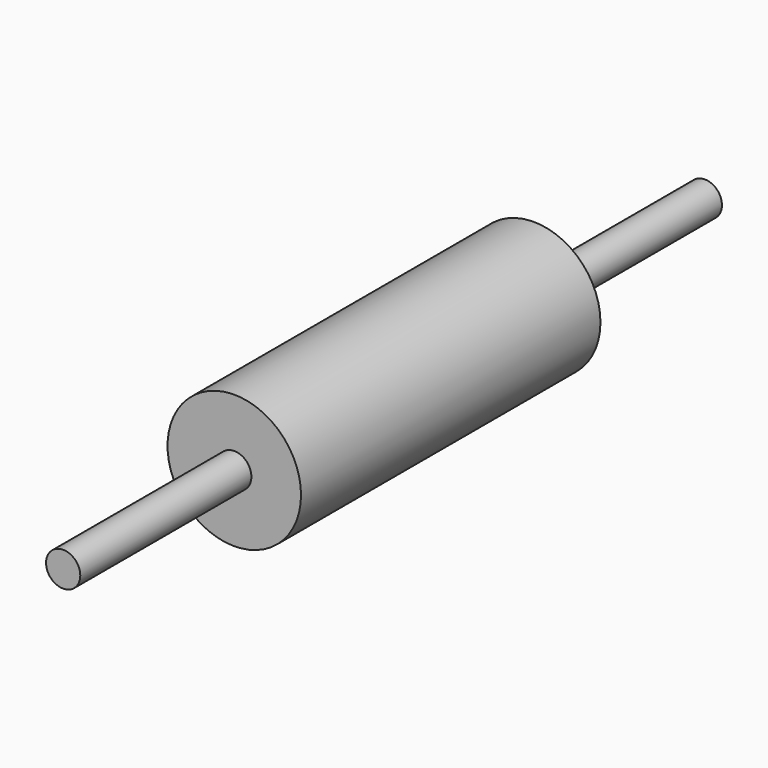
from build123d import *

# Parameters (mm, degrees)
F0_R     = 3.9624
F1_DEPTH = 22.225
F2_R     = 1.016
F3_DEPTH = 12.7
F4_R     = 1.016
F5_DEPTH = 12.7


with BuildPart() as f1:
    # F0 (on Front) → F1 (new body)
    with BuildSketch(Plane.XZ):
        Circle(F0_R)
    extrude(amount=-F1_DEPTH)

    # F2 (on face) → F3 (join)
    with BuildSketch(Plane.XZ):
        Circle(F2_R)
    extrude(amount=F3_DEPTH)

    # F4 (on face) → F5 (join)
    with BuildSketch(Plane(origin=(0, 22.225, 0), x_dir=(-1, 0, 0), z_dir=(0, 1, 0))):
        Circle(F4_R)
    extrude(amount=F5_DEPTH)


solid = f1.part
